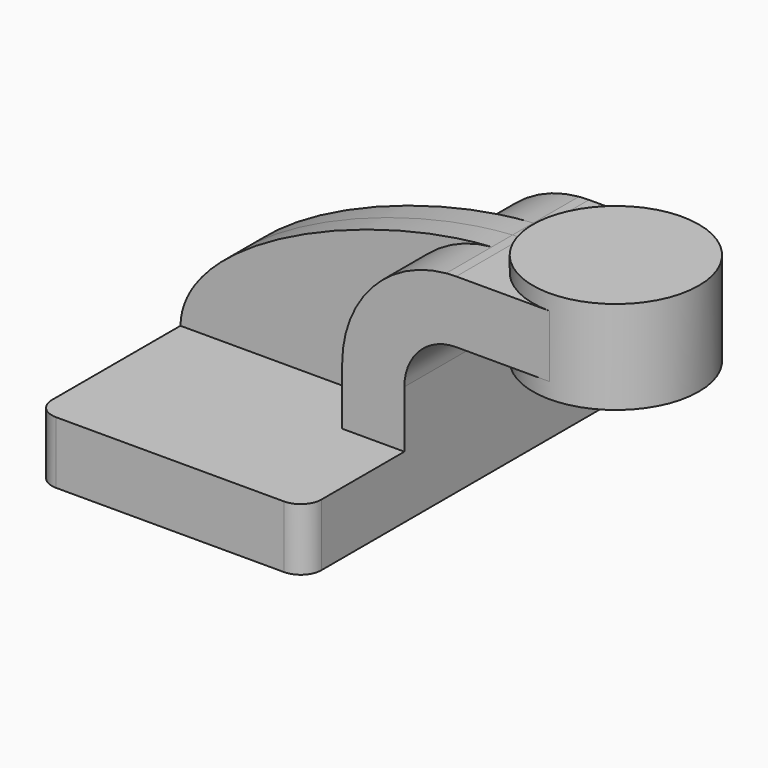
from build123d import *

# Parameters (mm, degrees)
F1_DEPTH = 63.5
F0_W     = 25.4
F0_H     = 19.05
F2_DEPTH = 25.4
F3_DEPTH = 7.9375
F5_R     = 6.35


with BuildPart() as f1:
    # F0 (on Front) → F1 (new body, symmetric)
    with BuildSketch(Plane.XZ):
        Polygon((-41.275, 9.525), (-41.275, -9.525), (41.275, -9.525), (41.275, 9.525), (22.225, 9.525), align=None)
    extrude(amount=F1_DEPTH, both=True)

    # F0 (on Front) → F2 (join, symmetric)
    with BuildSketch(Plane.XZ):
        with Locations((73.025, 52.4002)):
            Rectangle(F0_W, F0_H)
        with BuildLine():
            Line((22.225, 9.525), (41.275, 9.525))
            Line((41.275, 9.525), (41.275, 27.0002))
            ThreePointArc((41.275, 27.0002), (45.9246798487, 38.2255201513), (57.15, 42.8752))
            Line((57.15, 42.8752), (60.325, 42.8752))
            Line((60.325, 42.8752), (60.325, 61.9252))
            Line((60.325, 61.9252), (57.15, 61.9252))
            add(Edge.make_bspline(
                [(54.0864472604, 61.7905761062), (55.1229404156, 61.8521389075), (56.1446538719, 61.8971525232), (57.15, 61.9252)],
                knots=[108.5183196421, 108.5183196421, 108.5183196421, 108.5183196421, 111.5045361635, 111.5045361635, 111.5045361635, 111.5045361635], degree=3))
            ThreePointArc((54.0864472604, 61.7905761062), (31.3939307693, 50.5879197454), (22.225, 27.0002))
            Line((22.225, 27.0002), (22.225, 9.525))
        make_face()
    extrude(amount=F2_DEPTH, both=True)

    # F0 (on Front) → F3 (join, symmetric)
    with BuildSketch(Plane.XZ):
        with BuildLine():
            add(Edge.make_bspline(
                [(-41.275, 9.525), (-40.7630492765, 35.4617603228), (16.4205597691, 59.5534001686), (54.0864472604, 61.7905761062)],
                knots=[0, 0, 0, 0, 108.5183196421, 108.5183196421, 108.5183196421, 108.5183196421], degree=3))
            Line((-41.275, 9.525), (22.225, 9.525))
            Line((22.225, 9.525), (22.225, 27.0002))
            ThreePointArc((22.225, 27.0002), (31.3939307693, 50.5879197454), (54.0864472604, 61.7905761062))
        make_face()
    extrude(amount=F3_DEPTH, both=True)

    # F0 (on Front) → F4 (revolve)
    with BuildSketch(Plane.XZ):
        Polygon((85.725, 66.675), (85.725, 61.9252), (85.725, 42.8752), (85.725, 38.1), (111.125, 38.1), (111.125, 66.675), align=None)
    revolve(axis=Axis((85.725, 0, 52.3875), (0, 0, 1)))

    # F5
    f5_edges = [f1.edges().sort_by_distance(p)[0] for p in [
        (41.275, -63.5, 0),
        (-41.275, -63.5, 0),
        (41.275, 63.5, 0),
        (-41.275, 63.5, 0),
    ]]
    fillet(f5_edges, radius=F5_R)


solid = f1.part
